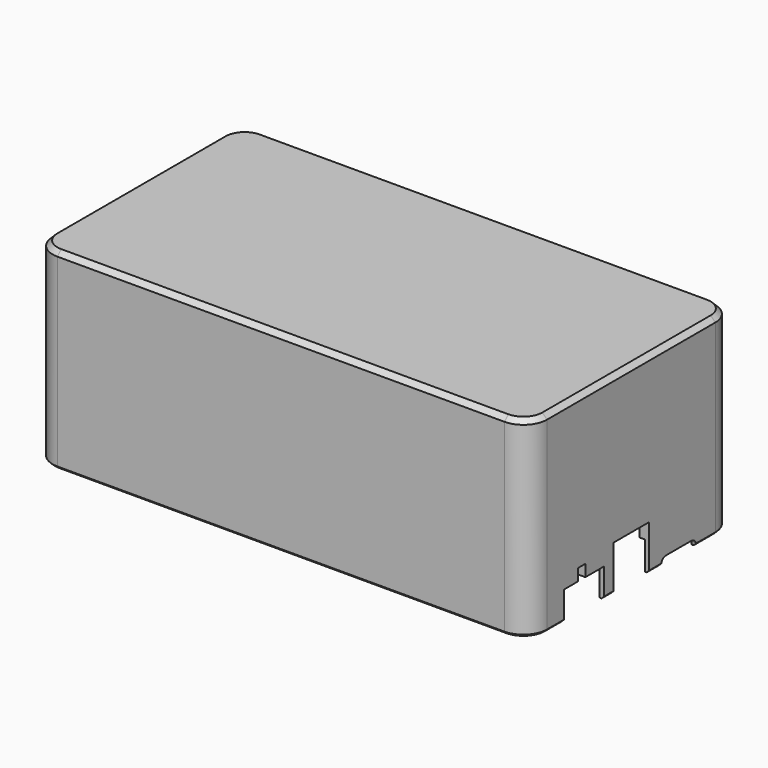
from build123d import *

# Parameters (mm, degrees)
PAD021_DEPTH                  = 40.5
POCKET064_DEPTH               = 6
PAD021_MIRRORED041_2_DEPTH    = 40.5
POCKET064_MIRRORED041_2_DEPTH = 6
PAD022_DEPTH                  = 2
PAD022_MIRRORED032_2_DEPTH    = 2
POCKET055_DEPTH               = 30.5
PAD018_DEPTH                  = 19.5
PAD018_FACE36_W               = 39
PAD018_FACE36_H               = 1.2
POCKET061_DEPTH               = 0.2
CHAMFER032_SIZE               = 0.5
CHAMFER030_SIZE               = 1
CHAMFER027_SIZE               = 0.2999
POCKET058_DEPTH               = 10
SKETCH064_W                   = 9.4
SKETCH064_H                   = 50
POCKET070_DEPTH               = 15
POCKET059_DEPTH               = 5
POCKET069_DEPTH               = 10
POCKET062_DEPTH               = 10
POCKET051_DEPTH               = 10
POCKET067_DEPTH               = 10
POCKET054_DEPTH               = 10


with BuildPart() as part:
    # Sketch081 (on DatumPlane) → Pad021 (new body)
    with BuildSketch(Plane.XY.offset(50)):
        with BuildLine():
            ThreePointArc((-47.2, 27.2), (-50.735534, 25.735534), (-52.2, 22.2))
            Line((-52.2, 0), (-52.2, 22.2))
            Line((-50.2, 0), (-52.2, 0))
            Line((-50.2, 22.2), (-50.2, 0))
            ThreePointArc((-47.2, 25.2), (-49.32132, 24.32132), (-50.2, 22.2))
            Line((0, 25.2), (-47.2, 25.2))
            Line((0, 27.2), (0, 25.2))
            Line((-47.2, 27.2), (0, 27.2))
        make_face()
    pad021 = extrude(amount=-PAD021_DEPTH)

    # Sketch080 (on Face10 of Pad021) → Pocket064 (cut)
    with BuildSketch(Plane(origin=(0, 0, 9.5), x_dir=(1, 0, 0), z_dir=(0, 0, -1))):
        with BuildLine():
            ThreePointArc((-50.2, -22.2), (-49.32132, -24.32132), (-47.2, -25.2))
            Line((-47.2, -25.2), (0, -25.2))
            Line((0, -25.2), (0, -26.3))
            Line((0, -26.3), (-47.2, -26.3))
            ThreePointArc((-51.3, -22.2), (-50.099138, -25.099138), (-47.2, -26.3))
            Line((-51.3, 0), (-51.3, -22.2))
            Line((-50.2, 0), (-51.3, 0))
            Line((-50.2, -22.2), (-50.2, 0))
        make_face()
    pocket064 = extrude(amount=-POCKET064_DEPTH, mode=Mode.SUBTRACT)

    # Sketch081 Mirrored041 2 → Pad021 Mirrored041 2 (add)
    with BuildSketch(Plane(origin=(0, 0, 50), x_dir=(-1, 0, 0), z_dir=(0, 0, -1))):
        with BuildLine():
            ThreePointArc((-47.2, 27.2), (-50.735534, 25.735534), (-52.2, 22.2))
            Line((-52.2, 0), (-52.2, 22.2))
            Line((-50.2, 0), (-52.2, 0))
            Line((-50.2, 22.2), (-50.2, 0))
            ThreePointArc((-47.2, 25.2), (-49.32132, 24.32132), (-50.2, 22.2))
            Line((0, 25.2), (-47.2, 25.2))
            Line((0, 27.2), (0, 25.2))
            Line((-47.2, 27.2), (0, 27.2))
        make_face()
    pad021_mirrored041_2 = extrude(amount=PAD021_MIRRORED041_2_DEPTH)

    # Sketch080 Mirrored041 2 → Pocket064 Mirrored041 2 (cut)
    with BuildSketch(Plane(origin=(0, 0, 9.5), x_dir=(-1, 0, 0), z_dir=(0, 0, 1))):
        with BuildLine():
            ThreePointArc((-50.2, -22.2), (-49.32132, -24.32132), (-47.2, -25.2))
            Line((-47.2, -25.2), (0, -25.2))
            Line((0, -25.2), (0, -26.3))
            Line((0, -26.3), (-47.2, -26.3))
            ThreePointArc((-51.3, -22.2), (-50.099138, -25.099138), (-47.2, -26.3))
            Line((-51.3, 0), (-51.3, -22.2))
            Line((-50.2, 0), (-51.3, 0))
            Line((-50.2, -22.2), (-50.2, 0))
        make_face()
    pocket064_mirrored041_2 = extrude(amount=POCKET064_MIRRORED041_2_DEPTH, mode=Mode.SUBTRACT)

    # Mirrored036: Pad021, Pocket064, Pad021 Mirrored041 2, Pocket064 Mirrored041 2 across Sketch081 H_Axis
    add(pad021.mirror(Plane(origin=(0, 0, 50), x_dir=(0, 0, 1), z_dir=(0, 1, 0))))
    add(pocket064.mirror(Plane(origin=(0, 0, 50), x_dir=(0, 0, 1), z_dir=(0, 1, 0))), mode=Mode.SUBTRACT)
    add(pad021_mirrored041_2.mirror(Plane(origin=(0, 0, 50), x_dir=(0, 0, 1), z_dir=(0, 1, 0))))
    add(pocket064_mirrored041_2.mirror(Plane(origin=(0, 0, 50), x_dir=(0, 0, 1), z_dir=(0, 1, 0))), mode=Mode.SUBTRACT)

    # Sketch058 (on DatumPlane) → Pad022 (join)
    with BuildSketch(Plane.XY.offset(50)):
        with BuildLine():
            ThreePointArc((-47.2, 25.2), (-49.32132, 24.32132), (-50.2, 22.2))
            Line((-50.2, 22.2), (-50.2, 0))
            Line((-50.2, 0), (0, 0))
            Line((0, 0), (0, 25.2))
            Line((0, 25.2), (-47.2, 25.2))
        make_face()
    pad022 = extrude(amount=-PAD022_DEPTH)

    # Sketch058 Mirrored032 2 → Pad022 Mirrored032 2 (add)
    with BuildSketch(Plane(origin=(0, 0, 50), x_dir=(-1, 0, 0), z_dir=(0, 0, -1))):
        with BuildLine():
            ThreePointArc((-47.2, 25.2), (-49.32132, 24.32132), (-50.2, 22.2))
            Line((-50.2, 22.2), (-50.2, 0))
            Line((-50.2, 0), (0, 0))
            Line((0, 0), (0, 25.2))
            Line((0, 25.2), (-47.2, 25.2))
        make_face()
    pad022_mirrored032_2 = extrude(amount=PAD022_MIRRORED032_2_DEPTH)

    # Mirrored039: Pad022, Pad022 Mirrored032 2 across Sketch058 H_Axis
    add(pad022.mirror(Plane(origin=(0, 0, 50), x_dir=(0, 0, 1), z_dir=(0, 1, 0))))
    add(pad022_mirrored032_2.mirror(Plane(origin=(0, 0, 50), x_dir=(0, 0, 1), z_dir=(0, 1, 0))))

    # Sketch067 → Pocket055 (cut, symmetric)
    with BuildSketch(Plane.YZ):
        with BuildLine():
            ThreePointArc((-26.1, 12.9), (-26.7, 12.3), (-26.1, 11.7))
            Line((-26.1, 12.9), (-26.1, 11.7))
        make_face()
    pocket055 = extrude(amount=POCKET055_DEPTH, both=True, mode=Mode.SUBTRACT)

    # Sketch067 → Pad018 (join, symmetric)
    with BuildSketch(Plane.YZ):
        with BuildLine():
            ThreePointArc((-26.1, 12.9), (-26.7, 12.3), (-26.1, 11.7))
            Line((-26.1, 12.9), (-26.1, 11.7))
        make_face()
    pad018 = extrude(amount=PAD018_DEPTH, both=True)

    # Pad018 Face36 → Pocket061 (cut)
    with BuildSketch(Plane(origin=(0, -26.1, 12.3), x_dir=(1, 0, 0), z_dir=(0, 1, 0))):
        Rectangle(PAD018_FACE36_W, PAD018_FACE36_H)
    pocket061 = extrude(amount=-POCKET061_DEPTH, mode=Mode.SUBTRACT)

    # Mirrored040: Pocket055, Pad018, Pocket061 across Sketch067 V_Axis
    add(pocket055.mirror(Plane(origin=(0, 0, 0), x_dir=(1, 0, 0), z_dir=(0, 1, 0))), mode=Mode.SUBTRACT)
    add(pad018.mirror(Plane(origin=(0, 0, 0), x_dir=(1, 0, 0), z_dir=(0, 1, 0))))
    add(pocket061.mirror(Plane(origin=(0, 0, 0), x_dir=(1, 0, 0), z_dir=(0, 1, 0))), mode=Mode.SUBTRACT)

    # Chamfer032
    chamfer032_edges = [part.edges().sort_by_distance(p)[0] for p in [
        (0, -27.2, 9.5),
    ]]
    chamfer(chamfer032_edges, length=CHAMFER032_SIZE)

    # Chamfer030
    chamfer030_edges = [part.edges().sort_by_distance(p)[0] for p in [
        (0, -27.2, 50),
    ]]
    chamfer(chamfer030_edges, length=CHAMFER030_SIZE)

    # Chamfer027
    chamfer027_edges = [part.edges().sort_by_distance(p)[0] for p in [
        (50.2, 0, 48),
    ]]
    chamfer(chamfer027_edges, length=CHAMFER027_SIZE)

    # Sketch079 (on DatumPlane) → Pocket058 (cut)
    with BuildSketch(Plane.YZ.offset(52.2)):
        Polygon((-7.2, 7.6), (-7.2, 15.6), (-12.1, 15.6), (-12.1, 18.1), (-14.1, 18.1), (-14.1, 15.6), (-17.8, 15.6), (-17.8, 7.6), (-17.8, 2.6), (-7.2, 2.6), align=None)
    extrude(amount=-POCKET058_DEPTH, mode=Mode.SUBTRACT)

    # Sketch064 (on DatumPlane) → Pocket070 (cut)
    with BuildSketch(Plane.YZ.offset(52.2)):
        with Locations((0, -6)):
            Rectangle(SKETCH064_W, SKETCH064_H)
    extrude(amount=-POCKET070_DEPTH, mode=Mode.SUBTRACT)

    # Sketch065 (on DatumPlane) → Pocket059 (cut)
    with BuildSketch(Plane.YZ.offset(52.2)):
        with BuildLine():
            Line((7.9, -40.25), (7.9, 9.75))
            ThreePointArc((9.15, 11), (8.266117, 10.633883), (7.9, 9.75))
            Line((9.15, 11), (15.85, 11))
            ThreePointArc((17.1, 9.75), (16.733883, 10.633883), (15.85, 11))
            Line((17.1, 9.75), (17.1, -40.25))
            Line((7.9, -40.25), (17.1, -40.25))
        make_face()
    extrude(amount=-POCKET059_DEPTH, mode=Mode.SUBTRACT)

    # Sketch078 (on DatumPlane) → Pocket069 (cut)
    with BuildSketch(Plane(origin=(-52.2, 0, 0), x_dir=(0, -1, 0), z_dir=(-1, 0, 0))):
        Polygon((-15.02, 7.6), (-15.02, 15.6), (-20.32, 15.6), (-20.32, 18.1), (-22.32, 18.1), (-22.32, 15.6), (-25.62, 15.6), (-25.62, 7.6), (-25.62, -42.4), (-15.02, -42.4), align=None)
    extrude(amount=-POCKET069_DEPTH, mode=Mode.SUBTRACT)

    # Sketch075 (on DatumPlane) → Pocket062 (cut)
    with BuildSketch(Plane(origin=(-52.2, 0, 0), x_dir=(0, -1, 0), z_dir=(-1, 0, 0))):
        Polygon((-4.86, 7.6), (-4.86, 15.6), (-10.16, 15.6), (-10.16, 18.1), (-12.16, 18.1), (-12.16, 15.6), (-15.46, 15.6), (-15.46, 7.6), (-15.46, -42.4), (-4.86, -42.4), align=None)
    extrude(amount=-POCKET062_DEPTH, mode=Mode.SUBTRACT)

    # Sketch073 (on DatumPlane) → Pocket051 (cut)
    with BuildSketch(Plane(origin=(-52.2, 0, 0), x_dir=(0, -1, 0), z_dir=(-1, 0, 0))):
        Polygon((5.3, 7.6), (5.3, 15.6), (0, 15.6), (0, 18.1), (-2, 18.1), (-2, 15.6), (-5.3, 15.6), (-5.3, 7.6), (-5.3, -42.4), (5.3, -42.4), align=None)
    extrude(amount=-POCKET051_DEPTH, mode=Mode.SUBTRACT)

    # Sketch077 (on DatumPlane) → Pocket067 (cut)
    with BuildSketch(Plane(origin=(-52.2, 0, 0), x_dir=(0, -1, 0), z_dir=(-1, 0, 0))):
        Polygon((15.46, 7.6), (15.46, 15.6), (10.16, 15.6), (10.16, 18.1), (8.16, 18.1), (8.16, 15.6), (4.86, 15.6), (4.86, 7.6), (4.86, -42.4), (15.46, -42.4), align=None)
    extrude(amount=-POCKET067_DEPTH, mode=Mode.SUBTRACT)

    # Sketch066 (on DatumPlane) → Pocket054 (cut)
    with BuildSketch(Plane(origin=(-52.2, 0, 0), x_dir=(0, -1, 0), z_dir=(-1, 0, 0))):
        Polygon((25.62, 7.6), (25.62, 15.6), (20.32, 15.6), (20.32, 18.1), (18.32, 18.1), (18.32, 15.6), (15.02, 15.6), (15.02, 7.6), (15.02, -42.4), (25.62, -42.4), align=None)
    extrude(amount=-POCKET054_DEPTH, mode=Mode.SUBTRACT)


solid = part.part
